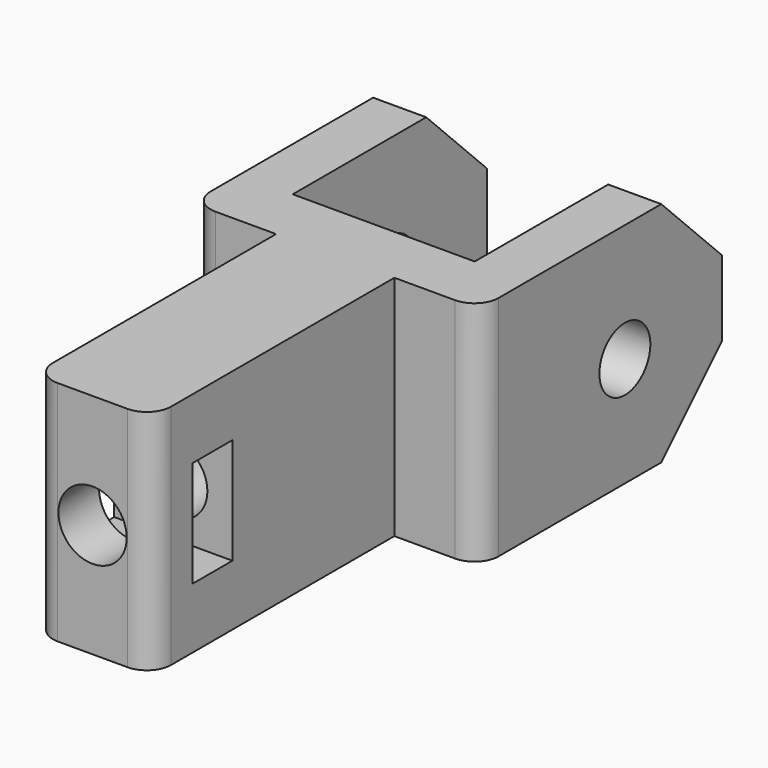
from build123d import *

# Parameters (mm, degrees)
F1_DEPTH  = 15
F2_R      = 2.25
F3_DEPTH  = 18
F4_R      = 2.1
F5_DEPTH  = 25
F6_W      = 3.3
F6_H      = 7
F7_DEPTH  = 25
F8_R      = 1.6
F9_SIZE   = 5
F10_DEPTH = 1.5


with BuildPart() as f1:
    # F0 (on Top) → F1 (new body)
    with BuildSketch(Plane.XY):
        Polygon((12, 0), (0, 0), (0, 16), (-3.5, 16), (-3.5, -4), (2.1, -4), (6, -4), (9.9, -4), (15.5, -4), (15.5, 16), (12, 16), align=None)
        Polygon((6, -4), (2.1, -4), (2.1, -24), (9.9, -24), (9.9, -4), align=None)
    extrude(amount=F1_DEPTH)

    # F2 (on face) → F3 (cut)
    with BuildSketch(Plane.XZ.offset(24)):
        with Locations((6, 7.5)):
            Circle(F2_R)
    extrude(amount=-F3_DEPTH, mode=Mode.SUBTRACT)

    # F4 (on face) → F5 (cut)
    with BuildSketch(Plane(origin=(-3.5, 0, 0), x_dir=(0, -1, 0), z_dir=(-1, 0, 0))):
        with Locations((-8, 7.227462)):
            Circle(F4_R)
    extrude(amount=-F5_DEPTH, mode=Mode.SUBTRACT)

    # F6 (on face) → F7 (cut)
    with BuildSketch(Plane(origin=(2.1, 0, 0), x_dir=(0, -1, 0), z_dir=(-1, 0, 0))):
        with Locations((19, 7.5)):
            Rectangle(F6_W, F6_H)
    extrude(amount=-F7_DEPTH, mode=Mode.SUBTRACT)

    # F8
    f8_edges = [f1.edges().sort_by_distance(p)[0] for p in [
        (2.1, -24, 7.5),
        (9.9, -24, 7.5),
        (-3.5, -4, 7.5),
        (15.5, -4, 7.5),
    ]]
    fillet(f8_edges, radius=F8_R)

    # F9
    f9_edges = [f1.edges().sort_by_distance(p)[0] for p in [
        (-1.75, 16, 0),
        (13.75, 16, 0),
        (13.75, 16, 15),
        (-1.75, 16, 15),
    ]]
    chamfer(f9_edges, length=F9_SIZE)

    # F4 (on face) → F10 (cut)
    with BuildSketch(Plane(origin=(-3.5, 0, 0), x_dir=(0, -1, 0), z_dir=(-1, 0, 0))):
        Polygon((-4.4, 5.149002), (-4.4, 9.305923), (-8, 11.384384), (-11.6, 9.305923), (-11.6, 5.149002), (-8, 3.070541), align=None)
        with Locations((-8, 7.227462)):
            Circle(F4_R, mode=Mode.SUBTRACT)
    extrude(amount=-F10_DEPTH, mode=Mode.SUBTRACT)


solid = f1.part
